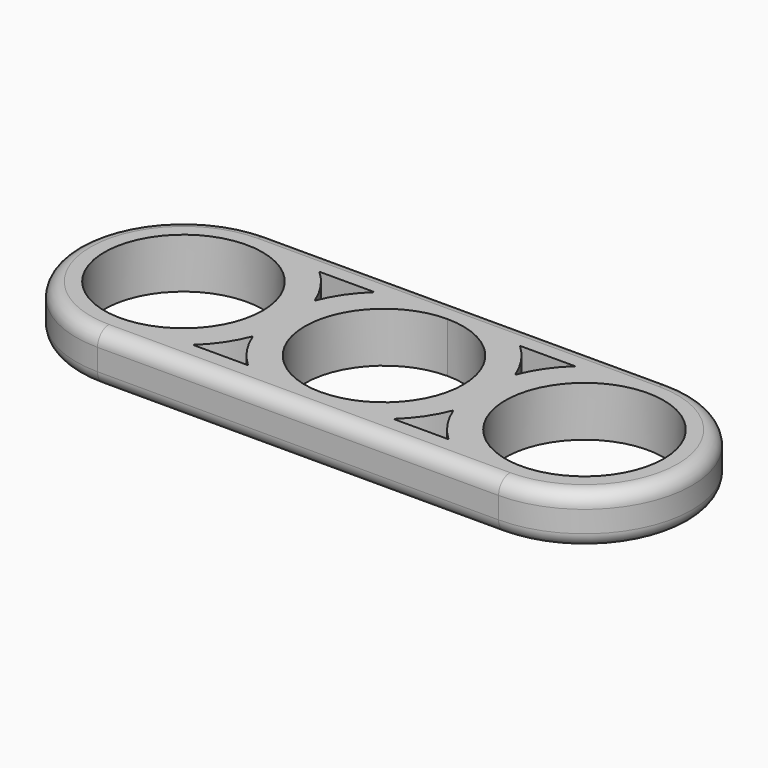
from build123d import *

# Parameters (mm, degrees)
F0_R     = 11.05
F1_DEPTH = 7
F2_R     = 2


with BuildPart() as f1:
    # F0 (on Top) → F1 (new body)
    with BuildSketch(Plane.XY):
        with BuildLine():
            Line((-10.1438404956, 11.05), (0, 11.05))
            Line((0, 11.05), (10.1438404956, 11.05))
            ThreePointArc((10.1438404956, 11.05), (5.4428852643, 13.9776607485), (0, 15))
            ThreePointArc((0, 15), (-5.4428852643, 13.9776607485), (-10.1438404956, 11.05))
        make_face()
        with BuildLine():
            Line((10.1438404956, -11.05), (0, -11.05))
            Line((0, -11.05), (-10.1438404956, -11.05))
            ThreePointArc((-10.1438404956, -11.05), (-5.442885249, -13.9776607544), (3.27e-08, -15))
            ThreePointArc((3.27e-08, -15), (5.4428852795, -13.9776607426), (10.1438404956, -11.05))
        make_face()
        with BuildLine():
            Line((-17.8561595044, 11.05), (-10.1438404956, 11.05))
            ThreePointArc((-10.1438404956, 11.05), (-5.4428852643, 13.9776607485), (0, 15))
            Line((0, 15), (-28, 15))
            ThreePointArc((-28, 15), (-22.5571147357, 13.9776607485), (-17.8561595044, 11.05))
        make_face()
        with BuildLine():
            ThreePointArc((0, 15), (5.4428852643, 13.9776607485), (10.1438404956, 11.05))
            Line((10.1438404956, 11.05), (17.8561595044, 11.05))
            ThreePointArc((17.8561595044, 11.05), (22.5571147357, 13.9776607485), (28, 15))
            Line((28, 15), (0, 15))
        make_face()
        with BuildLine():
            ThreePointArc((3.27e-08, -15), (-5.442885249, -13.9776607544), (-10.1438404956, -11.05))
            Line((-10.1438404956, -11.05), (-17.8561595044, -11.05))
            ThreePointArc((-17.8561595044, -11.05), (-22.5571147357, -13.9776607485), (-28, -15))
            Line((-28, -15), (3.27e-08, -15))
        make_face()
        with BuildLine():
            Line((17.8561595044, -11.05), (10.1438404956, -11.05))
            ThreePointArc((10.1438404956, -11.05), (5.4428852795, -13.9776607426), (3.27e-08, -15))
            Line((3.27e-08, -15), (28, -15))
            ThreePointArc((28, -15), (22.5571147357, -13.9776607485), (17.8561595044, -11.05))
        make_face()
        with BuildLine():
            ThreePointArc((-14, -5.3851648071), (-15, 0), (-14, 5.3851648071))
            ThreePointArc((-14, 5.3851648071), (-15.6002480706, 8.4407435745), (-17.8561595044, 11.05))
            ThreePointArc((-17.8561595044, 11.05), (-22.5571147357, 13.9776607485), (-28, 15))
            ThreePointArc((-28, 15), (-43, 0), (-28, -15))
            ThreePointArc((-28, -15), (-22.5571147357, -13.9776607485), (-17.8561595044, -11.05))
            ThreePointArc((-17.8561595044, -11.05), (-15.6002480706, -8.4407435745), (-14, -5.3851648071))
        make_face()
        with Locations((-28, 0)):
            Circle(F0_R, mode=Mode.SUBTRACT)
        with BuildLine():
            ThreePointArc((17.8561595044, 11.05), (15.6002480706, 8.4407435745), (14, 5.3851648071))
            ThreePointArc((14, 5.3851648071), (14.7478812038, 2.7386127875), (15, 0))
            ThreePointArc((15, 0), (14.7478812038, -2.7386127875), (14, -5.3851648071))
            ThreePointArc((14, -5.3851648071), (15.6002480706, -8.4407435745), (17.8561595044, -11.05))
            ThreePointArc((17.8561595044, -11.05), (22.5571147357, -13.9776607485), (28, -15))
            ThreePointArc((28, -15), (38.6066017178, -10.6066017178), (43, 0))
            ThreePointArc((43, 0), (38.6066017178, 10.6066017178), (28, 15))
            ThreePointArc((28, 15), (22.5571147357, 13.9776607485), (17.8561595044, 11.05))
        make_face()
        with Locations((28, 0)):
            Circle(F0_R, mode=Mode.SUBTRACT)
        with BuildLine():
            ThreePointArc((-13, 0), (-13.2521187962, 2.7386127875), (-14, 5.3851648071))
            ThreePointArc((-14, 5.3851648071), (-15, 0), (-14, -5.3851648071))
            ThreePointArc((-14, -5.3851648071), (-13.2521187962, -2.7386127875), (-13, 0))
        make_face()
        with BuildLine():
            ThreePointArc((0, -11.05), (-11.05, 0), (0, 11.05))
            Line((0, 11.05), (-10.1438404956, 11.05))
            ThreePointArc((-10.1438404956, 11.05), (-12.3997519294, 8.4407435745), (-14, 5.3851648071))
            ThreePointArc((-14, 5.3851648071), (-13.2521187962, 2.7386127875), (-13, 0))
            ThreePointArc((-13, 0), (-13.2521187962, -2.7386127875), (-14, -5.3851648071))
            ThreePointArc((-14, -5.3851648071), (-12.3997519294, -8.4407435745), (-10.1438404956, -11.05))
            Line((-10.1438404956, -11.05), (0, -11.05))
        make_face()
        with BuildLine():
            ThreePointArc((0, 11.05), (7.8135299321, 7.8135299321), (11.05, 0))
            ThreePointArc((11.05, 0), (7.8135299321, -7.8135299321), (0, -11.05))
            Line((0, -11.05), (10.1438404956, -11.05))
            ThreePointArc((10.1438404956, -11.05), (12.3997519294, -8.4407435745), (14, -5.3851648071))
            ThreePointArc((14, -5.3851648071), (13, 0), (14, 5.3851648071))
            ThreePointArc((14, 5.3851648071), (12.3997519294, 8.4407435745), (10.1438404956, 11.05))
            Line((10.1438404956, 11.05), (0, 11.05))
        make_face()
        with BuildLine():
            ThreePointArc((15, 0), (14.7478812038, 2.7386127875), (14, 5.3851648071))
            ThreePointArc((14, 5.3851648071), (13, 0), (14, -5.3851648071))
            ThreePointArc((14, -5.3851648071), (14.7478812038, -2.7386127875), (15, 0))
        make_face()
    extrude(amount=F1_DEPTH)

    # F2
    f2_edges = [f1.edges().sort_by_distance(p)[0] for p in [
        (0, 15, 7),
        (0, -15, 0),
    ]]
    fillet(f2_edges, radius=F2_R)


solid = f1.part
